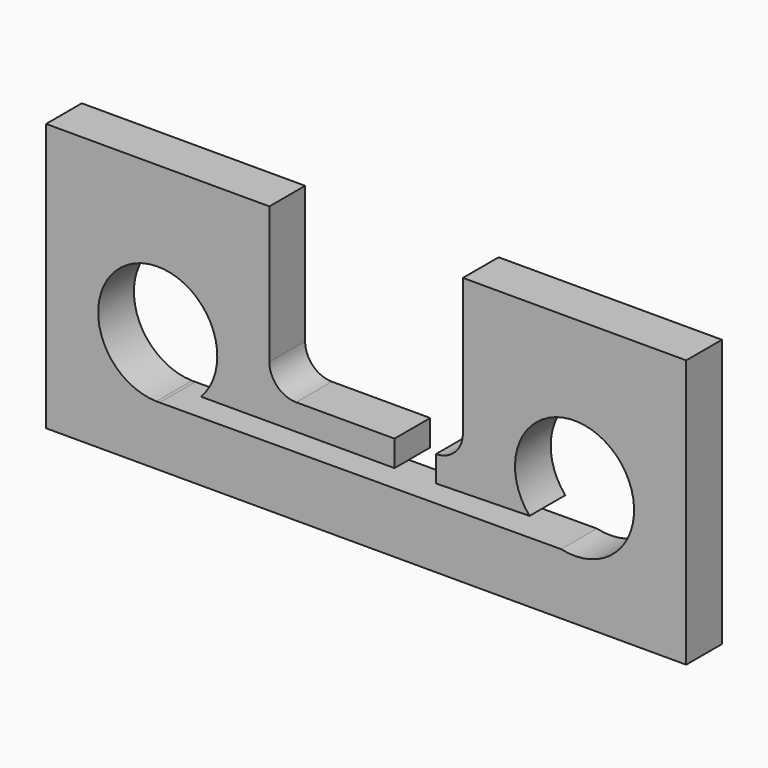
from build123d import *

# Parameters (mm, degrees)
F0_W     = 273.05
F0_H     = 114.3
F0_R     = 25.4
F1_DEPTH = 19.05
F3_DEPTH = 25.4
F5_DEPTH = 25.4


with BuildPart() as f1:
    # F0 (on Front) → F1 (new body)
    with BuildSketch(Plane.XZ):
        with Locations((136.525, 57.15)):
            Rectangle(F0_W, F0_H)
        with Locations((47.625, 50.8)):
            Circle(F0_R, mode=Mode.SUBTRACT)
        with Locations((225.425, 50.8)):
            Circle(F0_R, mode=Mode.SUBTRACT)
    extrude(amount=F1_DEPTH)

    # F2 (on face) → F3 (cut)
    with BuildSketch(Plane.XZ.offset(19.05)):
        with BuildLine():
            Line((177.8, 114.3), (95.25, 114.3))
            Line((95.25, 114.3), (95.25, 55.88))
            ThreePointArc((95.25, 55.88), (98.597769, 47.797769), (106.68, 44.45))
            Line((106.68, 44.45), (166.37, 44.45))
            ThreePointArc((166.37, 44.45), (174.452231, 47.797769), (177.8, 55.88))
            Line((177.8, 55.88), (177.8, 114.3))
        make_face()
    extrude(amount=-F3_DEPTH, mode=Mode.SUBTRACT)

    # F4 (on face) → F5 (cut)
    with BuildSketch(Plane.XZ.offset(19.05)):
        Polygon((166.37, 33.364765), (166.37, 44.45), (148.622125, 44.45), (148.622125, 33.364765), (66.095858, 33.364765), (47.032329, 25.406915), (219.736259, 26.045238), (206.231396, 34.163728), align=None)
    extrude(amount=-F5_DEPTH, mode=Mode.SUBTRACT)


solid = f1.part
